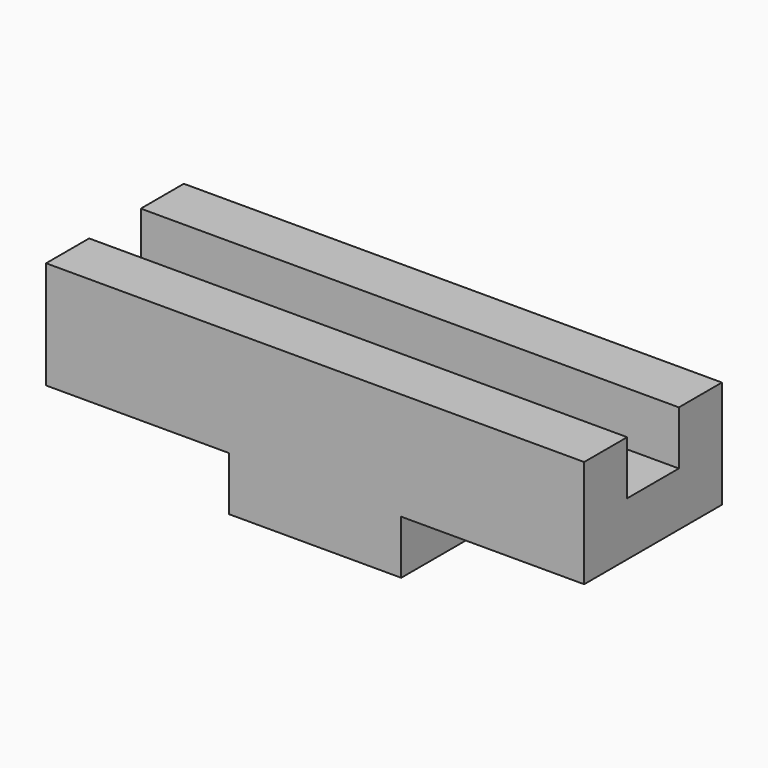
from build123d import *

# Parameters (mm, degrees)
F1_DEPTH = 50
F2_W     = 32
F2_H     = 32
F2_R     = 2.892908
F3_DEPTH = 10


with BuildPart() as f1:
    # F0 (on Right) → F1 (new body, symmetric)
    with BuildSketch(Plane.YZ):
        Polygon((6, 10), (0, 10), (-6, 10), (-6, 20), (-16, 20), (-16, 0), (16, 0), (16, 20), (6, 20), align=None)
    extrude(amount=F1_DEPTH, both=True)

    # F2 (on face) → F3 (join)
    with BuildSketch(Plane(origin=(0, 0, 0), x_dir=(1, 0, 0), z_dir=(0, 0, -1))):
        Rectangle(F2_W, F2_H)
        Circle(F2_R, mode=Mode.SUBTRACT)
    extrude(amount=F3_DEPTH)


solid = f1.part
